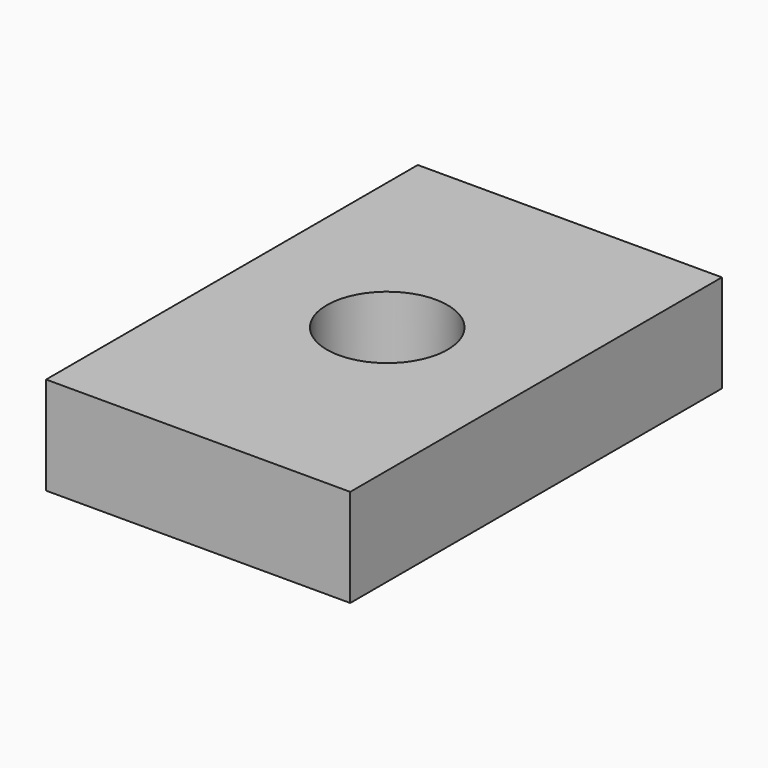
from build123d import *

# Parameters (mm, degrees)
F0_W     = 83.142923
F0_H     = 26.750332
F1_DEPTH = 127
F3_D     = 33.02


with BuildPart() as f1:
    # F0 (on Front) → F1 (new body)
    with BuildSketch(Plane.XZ):
        with Locations((-12.893177, -0.602485)):
            Rectangle(F0_W, F0_H)
    extrude(amount=-F1_DEPTH)

    # F3 (through all)
    with Locations(Plane.XY.offset(12.772681)):
        with Locations((-12.652184, 64.303316)):
            Hole(F3_D / 2)


solid = f1.part
